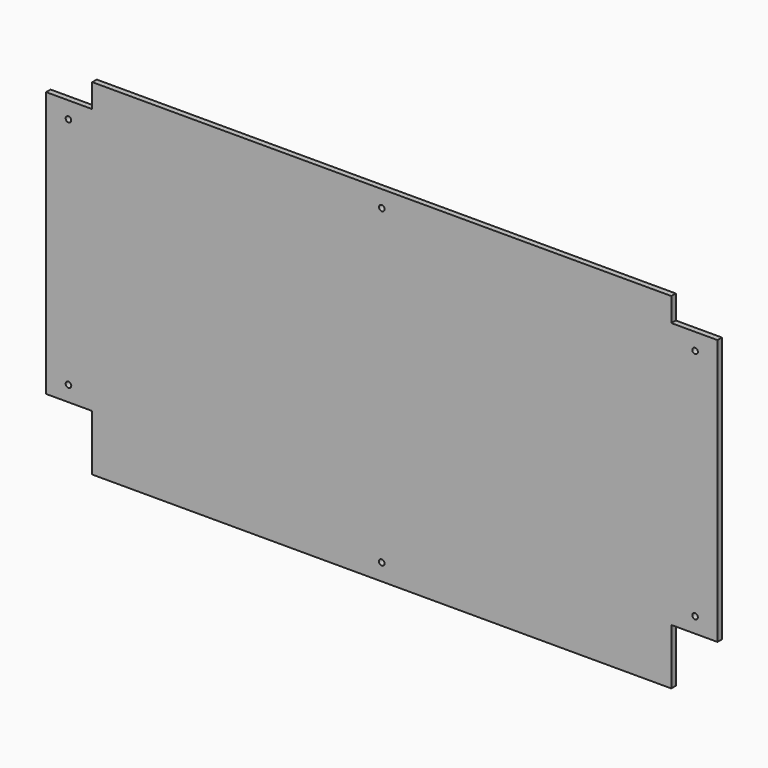
from build123d import *

# Parameters (mm, degrees)
F0_R     = 3.175
F1_DEPTH = 6.35


with BuildPart() as f1:
    # F0 (on Front) → F1 (new body)
    with BuildSketch(Plane.XZ):
        Polygon((-328.6125, 150.8125), (-381, 150.8125), (-381, -150.8125), (-328.6125, -150.8125), (-328.6125, -214.3125), (328.6125, -214.3125), (328.6125, -150.8125), (381, -150.8125), (381, 150.8125), (328.6125, 150.8125), (328.6125, 177.8), (-328.6125, 177.8), align=None)
        with Locations((-355.6, -133.35)):
            Circle(F0_R, mode=Mode.SUBTRACT)
        with Locations((0, -195.2625)):
            Circle(F0_R, mode=Mode.SUBTRACT)
        with Locations((355.6, -133.35)):
            Circle(F0_R, mode=Mode.SUBTRACT)
        with Locations((-355.6, 131.7625)):
            Circle(F0_R, mode=Mode.SUBTRACT)
        with Locations((0, 158.75)):
            Circle(F0_R, mode=Mode.SUBTRACT)
        with Locations((355.6, 131.7625)):
            Circle(F0_R, mode=Mode.SUBTRACT)
    extrude(amount=F1_DEPTH)


solid = f1.part
